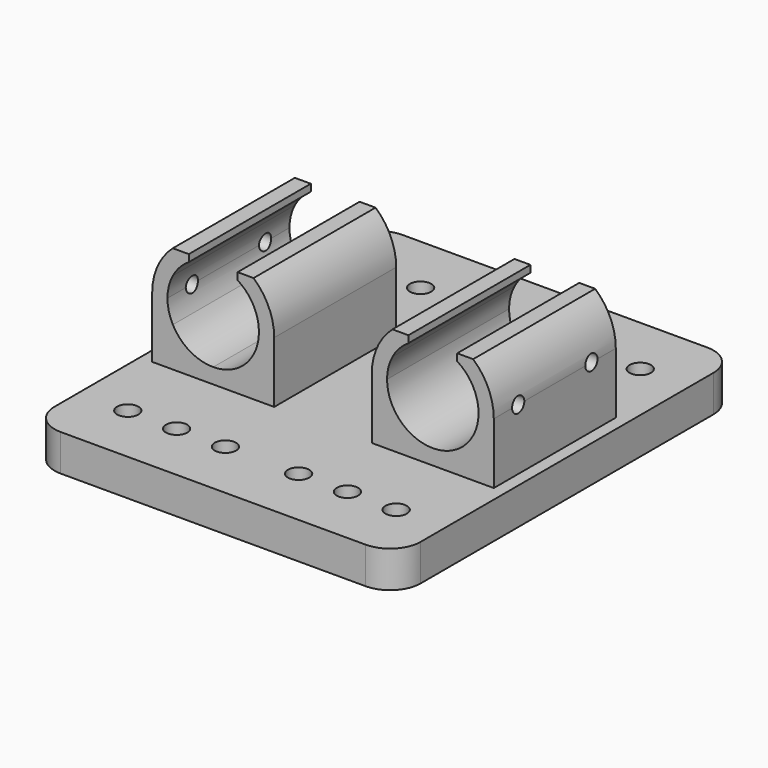
from build123d import *

# Parameters (mm, degrees)
F0_W      = 60
F0_H      = 50
F0_W_2    = 20
F0_H_2    = 25
F0_H_3    = 10
F1_DEPTH  = 6
F2_DEPTH  = 10
F4_DEPTH  = 25
F5_D      = 15
F8_DEPTH  = 25
F3_R      = 7.5
F9_DEPTH  = 25
F10_R     = 5
F12_D     = 2.5
F12_DEPTH = 10
F12_START = 0.0784327
F12_TIP   = 0.7510757738
F14_D     = 2.5
F14_DEPTH = 10
F14_START = 0.0784327
F14_TIP   = 0.7510757738
F15_D     = 3.5


with BuildPart() as f1:
    # F0 (on Top) → F1 (new body)
    with BuildSketch(Plane.XY):
        Rectangle(F0_W, F0_H)
        with Locations((-18, 0)):
            Rectangle(F0_W_2, F0_H_2, mode=Mode.SUBTRACT)
        with Locations((18, 0)):
            Rectangle(F0_W_2, F0_H_2, mode=Mode.SUBTRACT)
        with Locations((0, 30)):
            Rectangle(F0_W, F0_H_3)
        with Locations((0, -30)):
            Rectangle(F0_W, F0_H_3)
        with Locations((-18, 0)):
            Rectangle(F0_W_2, F0_H_2)
        with Locations((18, 0)):
            Rectangle(F0_W_2, F0_H_2)
    extrude(amount=-F1_DEPTH)

    # F0 (on Top) → F2 (join)
    with BuildSketch(Plane.XY):
        with Locations((-18, 0)):
            Rectangle(F0_W_2, F0_H_2)
        with Locations((18, 0)):
            Rectangle(F0_W_2, F0_H_2)
    extrude(amount=F2_DEPTH)

    # F5 (through all)
    with Locations(Plane.XZ.offset(12.5)):
        with Locations((-18, 10)):
            Hole(F5_D / 2)


with BuildPart() as f4:
    # F3 (on face) → F4 (new body)
    with BuildSketch(Plane.XZ.offset(12.5)):
        with BuildLine():
            Line((-24.6143782777, 13.5355339059), (-24.6143782777, 17.5))
            ThreePointArc((-24.6143782777, 17.5), (-27.1143782777, 14.1143782777), (-28, 10))
            Line((-28, 10), (-25.5, 10))
            ThreePointArc((-25.5, 10), (-25.2752263567, 11.8223834555), (-24.6143782777, 13.5355339059))
        make_face()
        with BuildLine():
            Line((-22, 17.5), (-24.6143782777, 17.5))
            Line((-24.6143782777, 17.5), (-24.6143782777, 13.5355339059))
            ThreePointArc((-24.6143782777, 13.5355339059), (-23.4898572411, 15.1099381085), (-22, 16.3442887702))
            Line((-22, 16.3442887702), (-22, 17.5))
        make_face()
    extrude(amount=-F4_DEPTH)


with BuildPart() as f4b:
    # F3 (on face) → F4, piece 2 (new body)
    with BuildSketch(Plane.XZ.offset(12.5)):
        with BuildLine():
            Line((-11.3856217223, 13.5355339059), (-11.3856217223, 17.5))
            Line((-11.3856217223, 17.5), (-14, 17.5))
            Line((-14, 17.5), (-14, 16.3442887702))
            ThreePointArc((-14, 16.3442887702), (-12.5101427589, 15.1099381085), (-11.3856217223, 13.5355339059))
        make_face()
        with BuildLine():
            Line((-10.5, 10), (-8, 10))
            ThreePointArc((-8, 10), (-8.8856217223, 14.1143782777), (-11.3856217223, 17.5))
            Line((-11.3856217223, 17.5), (-11.3856217223, 13.5355339059))
            ThreePointArc((-11.3856217223, 13.5355339059), (-10.7247736433, 11.8223834555), (-10.5, 10))
        make_face()
    extrude(amount=-F4_DEPTH)


with BuildPart() as f1_1:
    add(f1.part)

    # F6: union F4b, F4
    add(f4b.part)
    add(f4.part)

    # F7: F1 across plane


with BuildPart() as f1_2:
    add(f1_1.part)
    add(f1_1.part.mirror(Plane.YZ))

    # F3 (on face) → F8 (cut)
    with BuildSketch(Plane.XZ.offset(12.5)):
        with BuildLine():
            ThreePointArc((-24.6143782777, 6.4644660941), (-21.8557421922, 3.5670184092), (-18, 2.5))
            ThreePointArc((-18, 2.5), (-14.1442578078, 3.5670184092), (-11.3856217223, 6.4644660941))
            Line((-11.3856217223, 6.4644660941), (-11.3856217223, 10))
            Line((-11.3856217223, 10), (-24.6143782777, 10))
            Line((-24.6143782777, 10), (-24.6143782777, 6.4644660941))
        make_face()
        with BuildLine():
            ThreePointArc((-25.5, 10), (-25.2752263567, 8.1776165445), (-24.6143782777, 6.4644660941))
            Line((-24.6143782777, 6.4644660941), (-24.6143782777, 10))
            Line((-24.6143782777, 10), (-25.5, 10))
        make_face()
        with BuildLine():
            ThreePointArc((-11.3856217223, 6.4644660941), (-10.7247736433, 8.1776165445), (-10.5, 10))
            Line((-10.5, 10), (-11.3856217223, 10))
            Line((-11.3856217223, 10), (-11.3856217223, 6.4644660941))
        make_face()
    extrude(amount=-F8_DEPTH, mode=Mode.SUBTRACT)

    # F3 (on face) → F9 (cut)
    with BuildSketch(Plane.XZ.offset(12.5)):
        with Locations((18, 10)):
            Circle(F3_R)
    extrude(amount=-F9_DEPTH, mode=Mode.SUBTRACT)

    # F10
    f10_edges = [f1_2.edges().sort_by_distance(p)[0] for p in [
        (-30, -35, -3),
        (30, -35, -3),
        (30, 35, -3),
        (-30, 35, -3),
    ]]
    fillet(f10_edges, radius=F10_R)

    # F12
    # its depths count from where the whole tool has entered the part; down to there all is cleared
    with Locations(Plane.YZ.offset(28).offset(-F12_START)):
        with Locations((-7.5, 10), (7.5, 10)):
            Hole(F12_D / 2, depth=F12_DEPTH)
            with Locations((0, 0, -(F12_DEPTH + F12_TIP / 2))):  # 118° drill point
                Cone(0, F12_D / 2, F12_TIP, mode=Mode.SUBTRACT)

    # F14
    # its depths count from where the whole tool has entered the part; down to there all is cleared
    with Locations(Plane(origin=(-28, 0, 0), x_dir=(0, -1, 0), z_dir=(-1, 0, 0)).offset(-F14_START)):
        with Locations((-7.5, 10), (7.5, 10)):
            Hole(F14_D / 2, depth=F14_DEPTH)
            with Locations((0, 0, -(F14_DEPTH + F14_TIP / 2))):  # 118° drill point
                Cone(0, F14_D / 2, F14_TIP, mode=Mode.SUBTRACT)

    # F15 (through all)
    with Locations(Plane.XY):
        with Locations((-22, -25), (-14, -25), (-6, -25), (6, -25), (14, -25), (22, -25), (-22, 25), (-14, 25), (-6, 25), (6, 25), (14, 25), (22, 25)):
            Hole(F15_D / 2)


solid = f1_2.part
